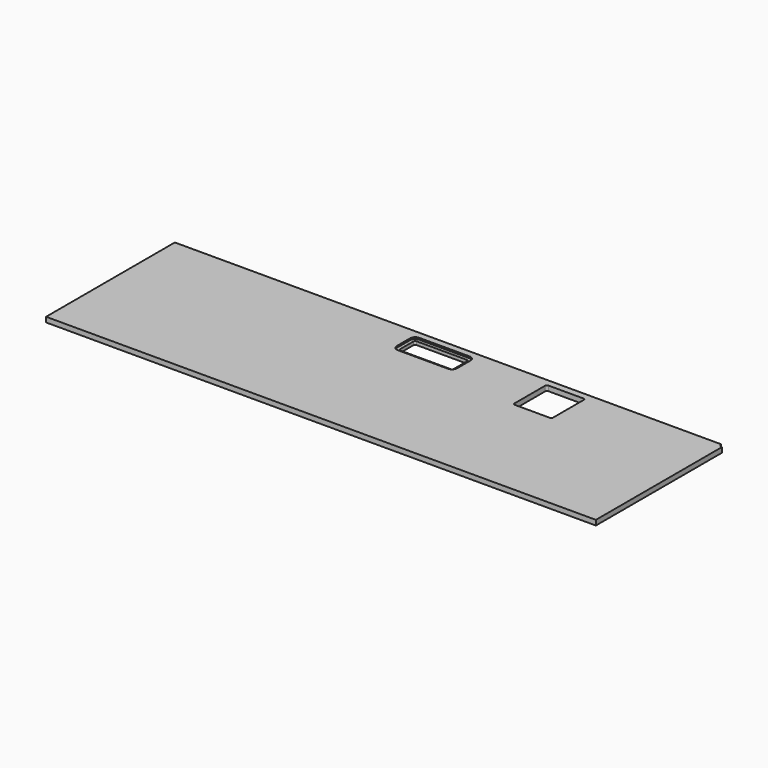
from build123d import *

# Parameters (mm, degrees)
F0_W     = 2082.8
F0_H     = 609.6
F1_DEPTH = 19.05
F2_R     = 12.7
F3_DEPTH = 25.4
F5_DEPTH = 6.35


with BuildPart() as f1:
    # F0 (on Top) → F1 (new body)
    with BuildSketch(Plane.XY):
        with Locations((1041.4, 304.8)):
            Rectangle(F0_W, F0_H)
    extrude(amount=F1_DEPTH)

    # F2 (on face) → F3 (cut)
    with BuildSketch(Plane.XY.offset(19.05)):
        with BuildLine():
            Line((1568.45, 584.2), (1435.1, 584.2))
            ThreePointArc((1435.1, 584.2), (1430.609872, 582.340128), (1428.75, 577.85))
            Line((1428.75, 577.85), (1428.75, 431.8))
            ThreePointArc((1428.75, 431.8), (1430.609872, 427.309872), (1435.1, 425.45))
            Line((1435.1, 425.45), (1568.45, 425.45))
            ThreePointArc((1568.45, 425.45), (1572.940128, 427.309872), (1574.8, 431.8))
            Line((1574.8, 431.8), (1574.8, 577.85))
            ThreePointArc((1574.8, 577.85), (1572.940128, 582.340128), (1568.45, 584.2))
        make_face()
        with BuildLine():
            Line((1136.65, 571.5), (946.15, 571.5))
            ThreePointArc((946.15, 571.5), (941.659872, 569.640128), (939.8, 565.15))
            Line((939.8, 565.15), (939.8, 501.65))
            ThreePointArc((939.8, 501.65), (941.659872, 497.159872), (946.15, 495.3))
            Line((946.15, 495.3), (1136.65, 495.3))
            ThreePointArc((1136.65, 495.3), (1141.140128, 497.159872), (1143, 501.65))
            Line((1143, 501.65), (1143, 565.15))
            ThreePointArc((1143, 565.15), (1141.140128, 569.640128), (1136.65, 571.5))
        make_face()
        with Locations((2082.8, 609.6)):
            Circle(F2_R)
    extrude(amount=-F3_DEPTH, mode=Mode.SUBTRACT)

    # F4 (on face) → F5 (cut)
    with BuildSketch(Plane.XY.offset(19.05)):
        with BuildLine():
            Line((1136.65, 584.2), (946.15, 584.2))
            ThreePointArc((946.15, 584.2), (932.679616, 578.620384), (927.1, 565.15))
            Line((927.1, 565.15), (927.1, 501.65))
            ThreePointArc((927.1, 501.65), (932.679616, 488.179616), (946.15, 482.6))
            Line((946.15, 482.6), (1136.65, 482.6))
            ThreePointArc((1136.65, 482.6), (1150.120384, 488.179616), (1155.7, 501.65))
            Line((1155.7, 501.65), (1155.7, 565.15))
            ThreePointArc((1155.7, 565.15), (1150.120384, 578.620384), (1136.65, 584.2))
        make_face()
        with BuildLine():
            ThreePointArc((1136.65, 571.5), (1141.140128, 569.640128), (1143, 565.15))
            Line((1143, 565.15), (1143, 501.65))
            ThreePointArc((1143, 501.65), (1141.140128, 497.159872), (1136.65, 495.3))
            Line((1136.65, 495.3), (946.15, 495.3))
            ThreePointArc((946.15, 495.3), (941.659872, 497.159872), (939.8, 501.65))
            Line((939.8, 501.65), (939.8, 565.15))
            ThreePointArc((939.8, 565.15), (941.659872, 569.640128), (946.15, 571.5))
            Line((946.15, 571.5), (1136.65, 571.5))
        make_face(mode=Mode.SUBTRACT)
    extrude(amount=-F5_DEPTH, mode=Mode.SUBTRACT)


solid = f1.part
